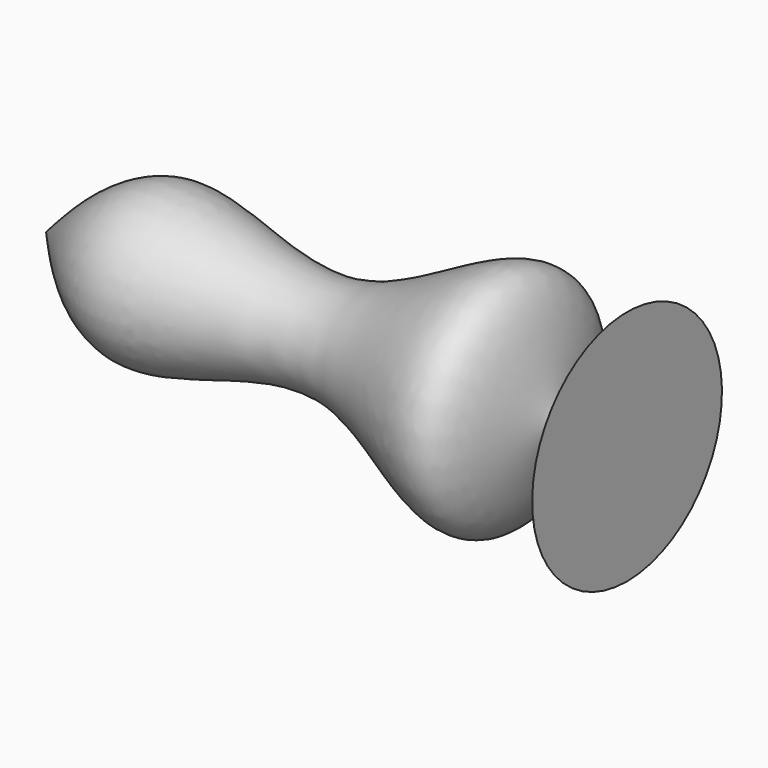
from build123d import *


with BuildPart() as f1:
    # F0 (on Front) → F1 (revolve)
    with BuildSketch(Plane.XZ):
        with BuildLine():
            Line((65.8474937081, -4.5768134296), (-58.8699169457, -4.5768134296))
            add(Edge.make_bspline(
                [(-58.8699169457, -4.5768134296), (-51.6531256106, -12.5182083923), (-35.8461901132, -29.9122429578), (5.2564317537, -3.6667505683), (46.7240821163, -44.2950398733), (50.4487044449, 10.4355073709), (60.6002240598, -16.2455638748), (65.8474937081, -30.0368759781)],
                knots=[0, 0, 0, 0, 0.1905339974, 0.4173265467, 0.6352366414, 0.8114556467, 1, 1, 1, 1], degree=3))
            Line((65.8474937081, -30.0368759781), (65.8474937081, -4.5768134296))
        make_face()
    revolve(axis=Axis((3.4887883812, 0, -4.5768134296), (1, 0, 0)))


solid = f1.part
